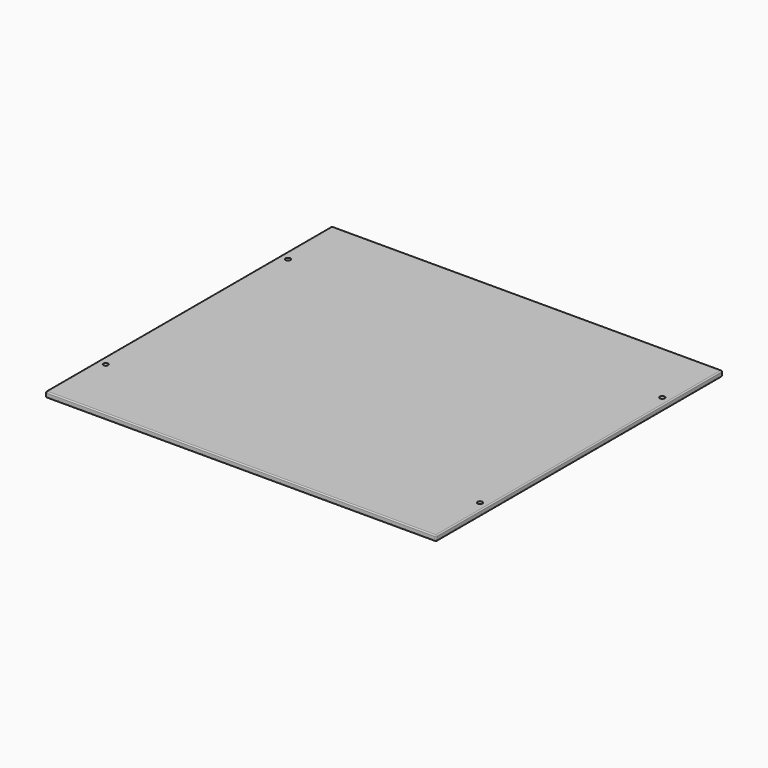
from build123d import *

# Parameters (mm, degrees)
F0_W           = 914.4
F0_H           = 838.2
F1_DEPTH       = 12.7
F3_R           = 2.54
F4_D           = 6.6
F4_CBORE_D     = 11.25
F4_CBORE_DEPTH = 6


with BuildPart() as f1:
    # F0 (on Top) → F1 (new body)
    with BuildSketch(Plane.XY):
        Rectangle(F0_W, F0_H)
    extrude(amount=F1_DEPTH)

    # F3
    f3_edges = [f1.edges().sort_by_distance(p)[0] for p in [
        (457.2, -419.1, 6.35),
        (457.2, 419.1, 6.35),
        (457.2, 0, 0),
        (457.2, 0, 12.7),
        (-457.2, 419.1, 6.35),
        (0, 419.1, 0),
        (0, 419.1, 12.7),
        (-457.2, -419.1, 6.35),
        (-457.2, 0, 0),
        (-457.2, 0, 12.7),
        (0, -419.1, 0),
        (0, -419.1, 12.7),
    ]]
    fillet(f3_edges, radius=F3_R)

    # F4 (through all)
    with Locations(Plane.XY.offset(12.7)):
        with Locations((-438.15, -266.7), (-438.15, 266.7), (438.15, 266.7), (438.15, -266.7)):
            CounterBoreHole(F4_D / 2, F4_CBORE_D / 2, F4_CBORE_DEPTH)


solid = f1.part
